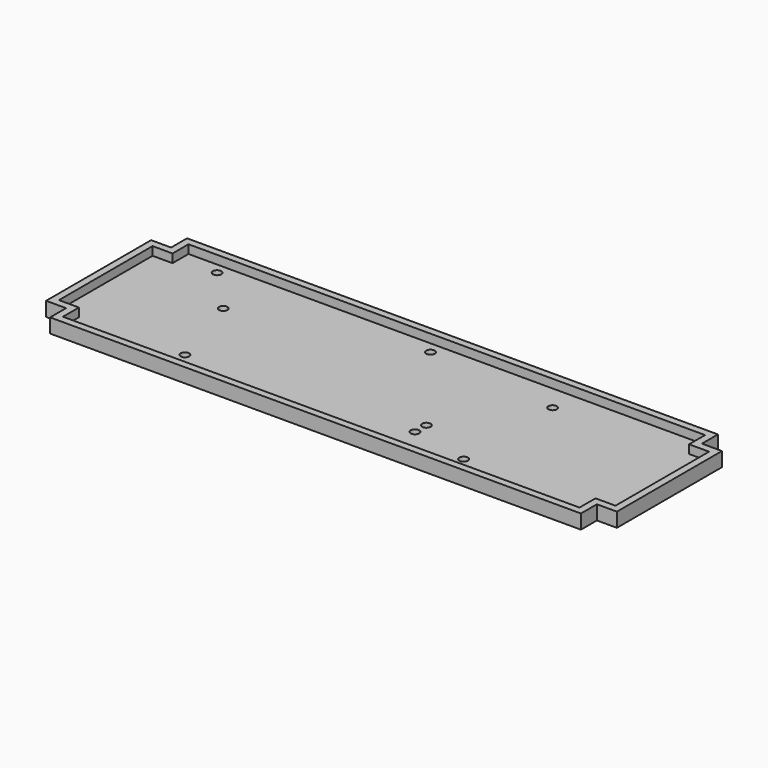
from build123d import *

# Parameters (mm, degrees)
PAD_DEPTH       = 5
POCKET003_DEPTH = 3
SKETCH011_R     = 1.5
POCKET004_DEPTH = 10


with BuildPart() as part:
    # Sketch009 (on Face5 of Pad002) → Pad (new body)
    with BuildSketch(Plane(origin=(0, 0, 0), x_dir=(1, 0, 0), z_dir=(0, 0, -1))):
        Polygon((-64.221279, 23.538714), (-71.221279, 23.538714), (-71.221279, -22.461286), (-64.221279, -22.461286), (-64.221279, -29.461286), (121.778721, -29.461286), (121.778721, -22.461286), (128.778721, -22.461286), (128.778721, 23.538714), (121.778721, 23.538714), (121.778721, 30.538714), (-64.221279, 30.538714), align=None)
    extrude(amount=PAD_DEPTH)

    # Sketch010 (on Face13 of Pad) → Pocket003 (cut)
    with BuildSketch(Plane.XY):
        Polygon((-61.721279, -28.038714), (-61.721279, -21.038714), (-68.721279, -21.038714), (-68.721279, 19.961286), (-61.721279, 19.961286), (-61.721279, 26.961286), (119.278721, 26.961286), (119.278721, 19.961286), (126.278721, 19.961286), (126.278721, -21.038714), (119.278721, -21.038714), (119.278721, -28.038714), align=None)
    extrude(amount=-POCKET003_DEPTH, mode=Mode.SUBTRACT)

    # Sketch011 (on Face27 of Pocket003) → Pocket004 (cut)
    with BuildSketch(Plane.XY.offset(-3)):
        with Locations((-48.657681, 23.169219)):
            Circle(SKETCH011_R)
        with Locations((-34.114651, 7.669219)):
            Circle(SKETCH011_R)
        with Locations((26.342319, 22.86806)):
            Circle(SKETCH011_R)
        with Locations((-25.157681, -20.330781)):
            Circle(SKETCH011_R)
        with Locations((-56.157681, -25.330781)):
            Circle(SKETCH011_R)
        with Locations((26.342319, -25.63194)):
            Circle(SKETCH011_R)
        with Locations((52.5, -11.63194)):
            Circle(SKETCH011_R)
        with Locations((52.5, -16.63194)):
            Circle(SKETCH011_R)
        with Locations((73, 18.059744)):
            Circle(SKETCH011_R)
        with Locations((73, -20.940256)):
            Circle(SKETCH011_R)
    extrude(amount=-POCKET004_DEPTH, mode=Mode.SUBTRACT)


solid = part.part
